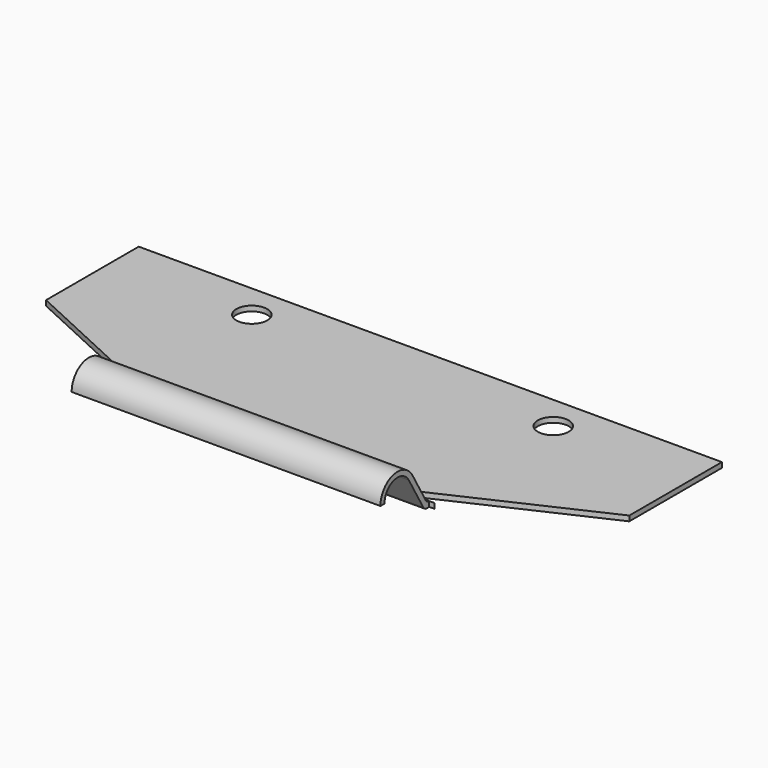
from build123d import *

# Parameters (mm, degrees)
F1_DEPTH      = 136
F2_R          = 3.6
F2_W          = 32
F2_H          = 0.307179677
F2_H_2        = 15.4264217739
F3_DEPTH      = 25
F3_DEPTH_BACK = 25


with BuildPart() as f1:
    # F0 (on Right) → F1 (new body)
    with BuildSketch(Plane.YZ):
        with BuildLine():
            Line((-44.986820323, 0), (0, 0))
            Line((0, 0), (0, 1.2))
            Line((0, 1.2), (-45.307179677, 1.2))
            ThreePointArc((-45.307179677, 1.2), (-45.907179677, 1.3607695155), (-46.3464101615, 1.8))
            Line((-46.3464101615, 1.8), (-50.2146569651, 8.5))
            ThreePointArc((-50.2146569651, 8.5), (-55.8515351743, 10.8262201905), (-59.5447152664, 5.9737860459))
            Line((-59.5447152664, 5.9737860459), (-58.3446937529, 5.9737860459))
            ThreePointArc((-58.3446937529, 5.9737860459), (-55.5409509963, 9.6671041309), (-51.2538872874, 7.9000000936))
            Line((-51.2538872874, 7.9000000936), (-47.0392304845, 0.6))
            ThreePointArc((-47.0392304845, 0.6), (-46.6, 0.1607695155), (-46, 0))
            Line((-46, 0), (-44.986820323, 0))
        make_face()
    extrude(amount=F1_DEPTH)

    # F2 (on face) → F3 (cut, two sides)
    with BuildSketch(Plane.XY.offset(1.2)) as f3_sk:
        with Locations((32.85, -8.1)):
            Circle(F2_R)
        with Locations((103.15, -8.1)):
            Circle(F2_R)
        with BuildLine():
            Line((34.8285392911, -43.0922142824), (0, -27))
            Line((0, -27), (0, -45))
            Line((0, -45), (32, -45))
            Line((32, -45), (34.4091050401, -45))
            ThreePointArc((34.4091050401, -45), (35.3857794274, -44.2147257348), (34.8285392911, -43.0922142824))
        make_face()
        with Locations((16, -45.1535898385)):
            Rectangle(F2_W, F2_H)
        with Locations((16, -53.0203905639)):
            Rectangle(F2_W, F2_H_2)
        Polygon((136, -45.307179677), (105.2193802085, -45.307179677), (104, -45.3193486593), (104, -60.7336014509), (136, -60.7336014509), align=None)
        Polygon((136, -45), (136, -27), (96.3775890938, -45.307179677), (104, -45.307179677), (105.2193802085, -45.307179677), align=None)
        Polygon((136, -45.307179677), (136, -45), (105.2193802085, -45.307179677), align=None)
    extrude(amount=-F3_DEPTH, mode=Mode.SUBTRACT)
    extrude(f3_sk.sketch, amount=F3_DEPTH_BACK, mode=Mode.SUBTRACT)


solid = f1.part
